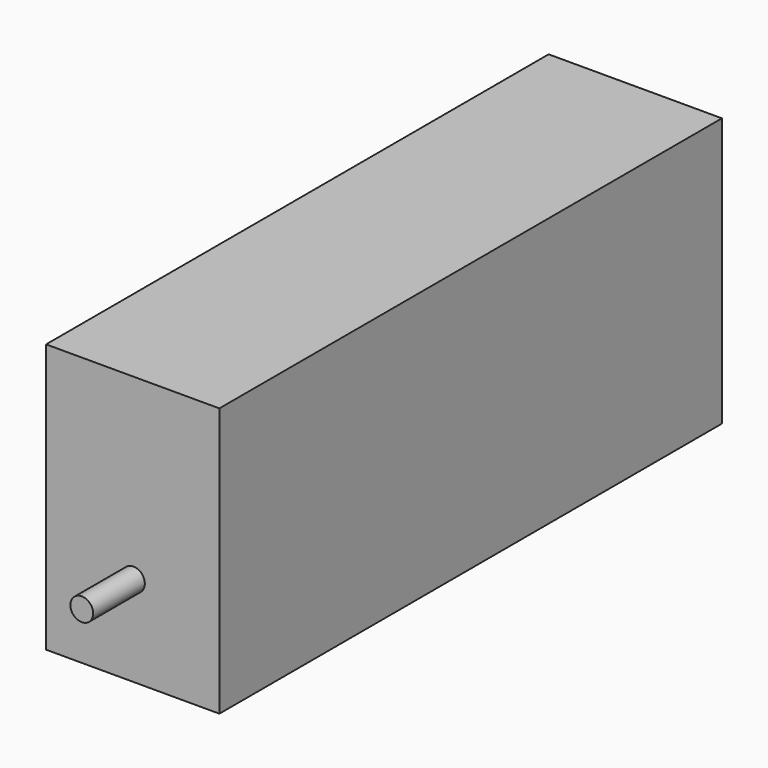
from build123d import *

# Parameters (mm, degrees)
F0_W     = 449.834
F0_H     = 697.781688
F1_DEPTH = 1630.68
F2_R     = 29.584786
F3_DEPTH = 167.64
F4_R     = 28.30083
F5_DEPTH = 167.64


with BuildPart() as f1:
    # F0 (on Front) → F1 (new body)
    with BuildSketch(Plane.XZ):
        with Locations((-1.818407, 114.559772)):
            Rectangle(F0_W, F0_H)
    extrude(amount=F1_DEPTH)

    # F2 (on face) → F3 (join)
    with BuildSketch(Plane.XZ.offset(1630.68)):
        Circle(F2_R)
    extrude(amount=F3_DEPTH)

    # F4 (on face) → F5 (join)
    with BuildSketch(Plane(origin=(0, 0, 0), x_dir=(-1, 0, 0), z_dir=(0, 1, 0))):
        Circle(F4_R)
    extrude(amount=F5_DEPTH)


solid = f1.part
